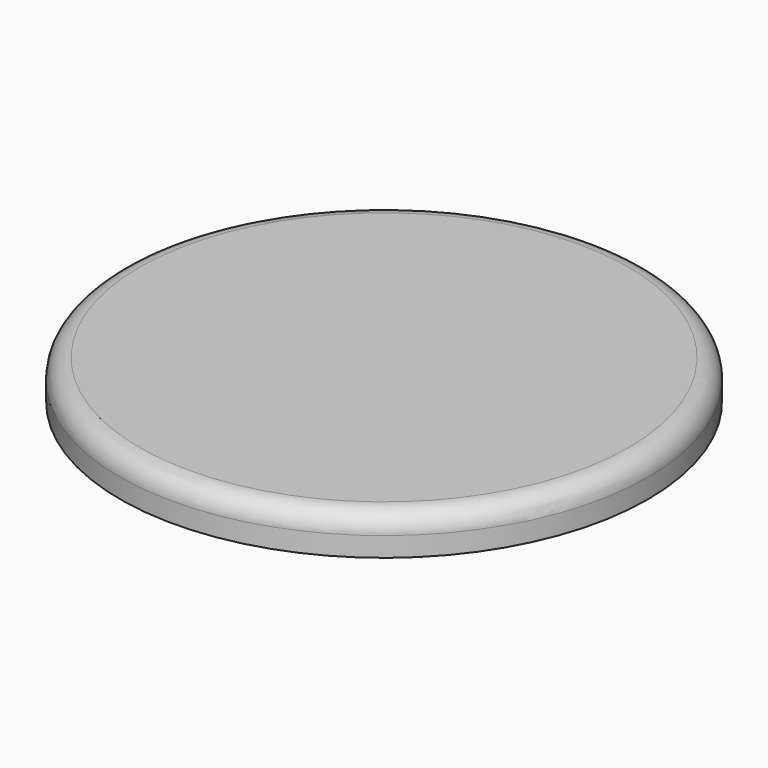
from build123d import *

# Parameters (mm, degrees)
F0_R     = 42.8625
F1_DEPTH = 6.35
F2_R     = 3.175


with BuildPart() as f1:
    # F0 (on Top) → F1 (new body)
    with BuildSketch(Plane.XY):
        Circle(F0_R)
    extrude(amount=-F1_DEPTH)

    # F2
    f2_edges = [f1.edges().sort_by_distance(p)[0] for p in [
        (-42.8625, 0, 0),
    ]]
    fillet(f2_edges, radius=F2_R)


solid = f1.part
